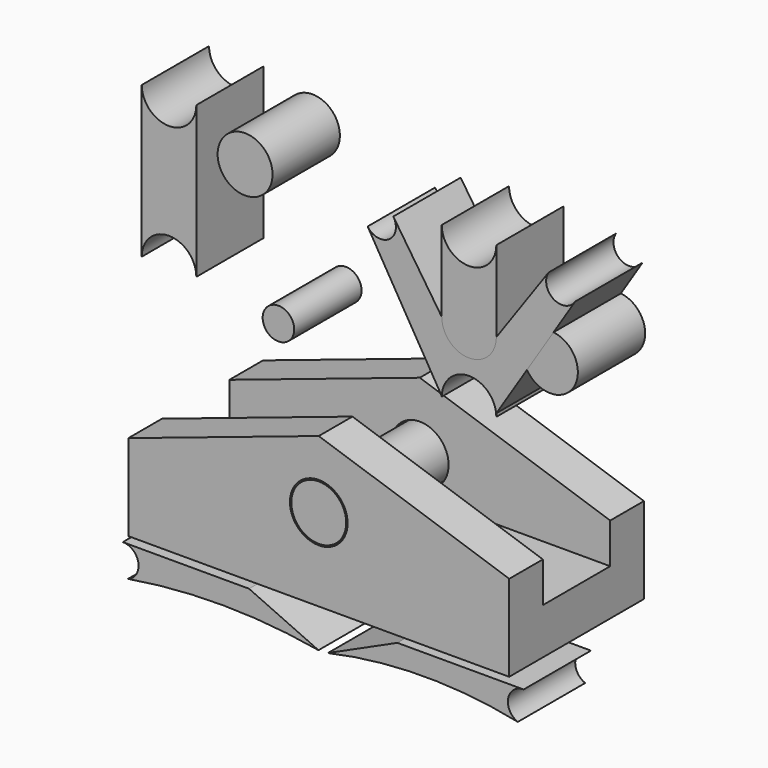
from build123d import *

# Parameters (mm, degrees)
F0_R      = 8.700909
F1_DEPTH  = 50.8
F2_W      = 25.4
F2_H      = 12.142614
F2_H_2    = 25.4
F3_DEPTH  = 228.6
F4_R      = 8.287564
F5_DEPTH  = 50.8
F7_DEPTH  = 25.4
F8_R      = 8.287564
F9_DEPTH  = 25.4
F11_DEPTH = 25.4
F12_R     = 8.287564
F13_DEPTH = 25.4
F15_DEPTH = 25.4
F16_R     = 4.7625
F17_DEPTH = 25.4
F19_DEPTH = 25.4
F21_DEPTH = 25.4
F22_W     = 3.665978
F22_H     = 13.197526
F23_DEPTH = 2.54


with BuildPart() as f1:
    # F0 (on Front) → F1 (new body)
    with BuildSketch(Plane.XZ):
        Polygon((-48.02433, -9.439898), (-48.02433, -35.468351), (66.90412, -35.468351), (66.90412, -9.439898), (9.439895, 9.806495), align=None)
        with Locations((9.439895, -10.53969)):
            Circle(F0_R, mode=Mode.SUBTRACT)
    extrude(amount=F1_DEPTH)

    # F2 (on face) → F3 (cut)
    with BuildSketch(Plane(origin=(-48.02433, 0, 0), x_dir=(0, -1, 0), z_dir=(-1, 0, 0))):
        with Locations((25.4, -15.511205)):
            Rectangle(F2_W, F2_H)
        with Locations((25.4, 3.260102)):
            Rectangle(F2_W, F2_H_2)
    extrude(amount=-F3_DEPTH, mode=Mode.SUBTRACT)

    # F22 (on face) → F23 (join)
    with BuildSketch(Plane(origin=(0, 0, 0), x_dir=(-1, 0, 0), z_dir=(0, 1, 0))):
        Polygon((-42.342063, -12.37268), (-46.557941, -12.37268), (-46.557941, -24.83701), (-42.342063, -24.83701), (-42.342063, -18.604847), (-38.492784, -18.604847), (-38.492784, -24.83701), (-34.643505, -24.83701), (-34.643505, -12.37268), (-38.492784, -12.37268), (-38.492784, -15.122165), (-42.342063, -15.122165), align=None)
        with Locations((-28.228042, -18.971443)):
            Rectangle(F22_W, F22_H)
    extrude(amount=F23_DEPTH)


with BuildPart() as f5:
    # F4 (on face) → F5 (new body)
    with BuildSketch(Plane.XZ.offset(50.8)):
        with Locations((9.439895, -10.53969)):
            Circle(F4_R)
    extrude(amount=-F5_DEPTH)


with BuildPart() as f7:
    # F6 (on Front) → F7 (new body)
    with BuildSketch(Plane.XZ):
        with BuildLine():
            Line((26.22462, 61.005793), (26.22462, 15.374597))
            ThreePointArc((26.22462, 15.374597), (34.460206, 23.610183), (42.695791, 15.374597))
            Line((42.695791, 15.374597), (42.695791, 61.005793))
            ThreePointArc((42.695791, 61.005793), (34.460206, 52.770208), (26.22462, 61.005793))
        make_face()
    extrude(amount=F7_DEPTH)


with BuildPart() as f9:
    # F8 (on Front) → F9 (new body)
    with BuildSketch(Plane.XZ):
        with Locations((59.015222, 35.232589)):
            Circle(F8_R)
    extrude(amount=F9_DEPTH)


with BuildPart() as f11:
    # F10 (on Front) → F11 (new body)
    with BuildSketch(Plane.XZ):
        with BuildLine():
            Line((-64.300042, 68.761086), (-64.300042, 23.12989))
            ThreePointArc((-64.300042, 23.12989), (-56.064457, 31.365475), (-47.828871, 23.12989))
            Line((-47.828871, 23.12989), (-47.828871, 68.761086))
            ThreePointArc((-47.828871, 68.761086), (-56.064457, 60.525501), (-64.300042, 68.761086))
        make_face()
    extrude(amount=F11_DEPTH)


with BuildPart() as f13:
    # F12 (on Front) → F13 (new body)
    with BuildSketch(Plane.XZ):
        with Locations((-33.114091, 57.816487)):
            Circle(F12_R)
    extrude(amount=F13_DEPTH)


with BuildPart() as f15:
    # F14 (on Front) → F15 (new body)
    with BuildSketch(Plane.XZ):
        with BuildLine():
            ThreePointArc((26.253146, 15.51573), (34.099101, 23.58798), (42.647568, 16.263777))
            Line((42.647568, 16.263777), (66.507362, 53.76728))
            ThreePointArc((66.507362, 53.76728), (59.932723, 52.305454), (58.470897, 58.880093))
            Line((58.470897, 58.880093), (42.703463, 36.568142))
            ThreePointArc((42.703463, 36.568142), (34.473863, 28.338542), (26.244263, 36.568142))
            Line((26.244263, 36.568142), (11.612365, 58.502705))
            ThreePointArc((11.612365, 58.502705), (10.323067, 52.046836), (3.867199, 53.336134))
            Line((3.867199, 53.336134), (26.253146, 15.51573))
        make_face()
    extrude(amount=F15_DEPTH)


with BuildPart() as f17:
    # F16 (on Front) → F17 (new body)
    with BuildSketch(Plane.XZ):
        with Locations((-23.049947, 18.788144)):
            Circle(F16_R)
    extrude(amount=F17_DEPTH)


with BuildPart() as f19:
    # F18 (on Front) → F19 (new body)
    with BuildSketch(Plane.XZ):
        with BuildLine():
            ThreePointArc((49.183254, -63.542155), (46.264315, -58.220972), (50.941907, -54.35376))
            Line((50.941907, -54.35376), (12.841907, -54.35376))
            Line((12.841907, -54.35376), (-8.120752, -63.873419))
            ThreePointArc((-8.120752, -63.873419), (20.513564, -60.648167), (49.183254, -63.542155))
        make_face()
    extrude(amount=F19_DEPTH)


with BuildPart() as f21:
    # F20 (on Front) → F21 (new body)
    with BuildSketch(Plane.XZ):
        with BuildLine():
            ThreePointArc((-70.013664, -54.534715), (-66.646068, -55.929619), (-65.251164, -59.297215))
            ThreePointArc((-65.251164, -59.297215), (-66.12619, -62.048388), (-68.429727, -63.788601))
            ThreePointArc((-68.429727, -63.788601), (-39.684084, -61.480271), (-10.960631, -64.050017))
            Line((-10.960631, -64.050017), (-31.913664, -54.534715))
            Line((-31.913664, -54.534715), (-70.013664, -54.534715))
        make_face()
    extrude(amount=F21_DEPTH)


solid = Compound([f1.part, f5.part, f7.part, f9.part, f11.part, f13.part, f15.part, f17.part, f19.part, f21.part])
